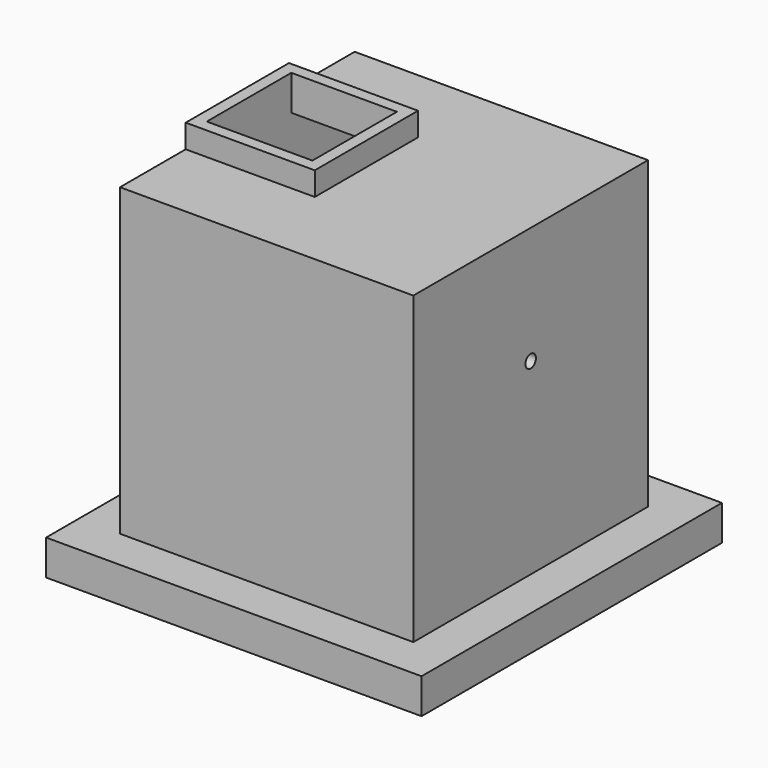
from build123d import *

# Parameters (mm, degrees)
F0_W      = 1600
F0_H      = 1600
F2_DEPTH  = 150
F1_W      = 1250
F1_H      = 1250
F1_W_2    = 1150
F1_H_2    = 1150
F3_DEPTH  = 1250
F4_W      = 1250
F4_H      = 1250
F4_W_2    = 450
F4_H_2    = 450
F5_DEPTH  = 50
F6_W      = 550
F6_H      = 550
F6_W_2    = 450
F6_H_2    = 450
F7_DEPTH  = 100
F8_R      = 27.85
F9_DEPTH  = 100
F10_R     = 27.85
F11_DEPTH = 200


with BuildPart() as f2:
    # F0 (on Top) → F2 (new body)
    with BuildSketch(Plane.XY):
        Rectangle(F0_W, F0_H)
    extrude(amount=-F2_DEPTH)

    # F1 (on Top) → F3 (join)
    with BuildSketch(Plane.XY):
        Rectangle(F1_W, F1_H)
        Rectangle(F1_W_2, F1_H_2, mode=Mode.SUBTRACT)
    extrude(amount=F3_DEPTH)

    # F4 (on face) → F5 (join)
    with BuildSketch(Plane.XY.offset(1250)):
        Rectangle(F4_W, F4_H)
        with Locations((-350, 0)):
            Rectangle(F4_W_2, F4_H_2, mode=Mode.SUBTRACT)
    extrude(amount=F5_DEPTH)

    # F6 (on face) → F7 (join)
    with BuildSketch(Plane.XY.offset(1300)):
        with Locations((-350, 0)):
            Rectangle(F6_W, F6_H)
        with Locations((-350, 0)):
            Rectangle(F6_W_2, F6_H_2, mode=Mode.SUBTRACT)
    extrude(amount=F7_DEPTH)

    # F8 (on face) → F9 (cut)
    with BuildSketch(Plane.YZ.offset(625)):
        with Locations((0, 800)):
            Circle(F8_R)
    extrude(amount=-F9_DEPTH, mode=Mode.SUBTRACT)

    # F10 (on face) → F11 (cut)
    with BuildSketch(Plane(origin=(0, 0, -150), x_dir=(1, 0, 0), z_dir=(0, 0, -1))):
        with Locations((-125, -150)):
            Circle(F10_R)
        with Locations((-225, 150)):
            Circle(F10_R)
    extrude(amount=-F11_DEPTH, mode=Mode.SUBTRACT)


solid = f2.part
